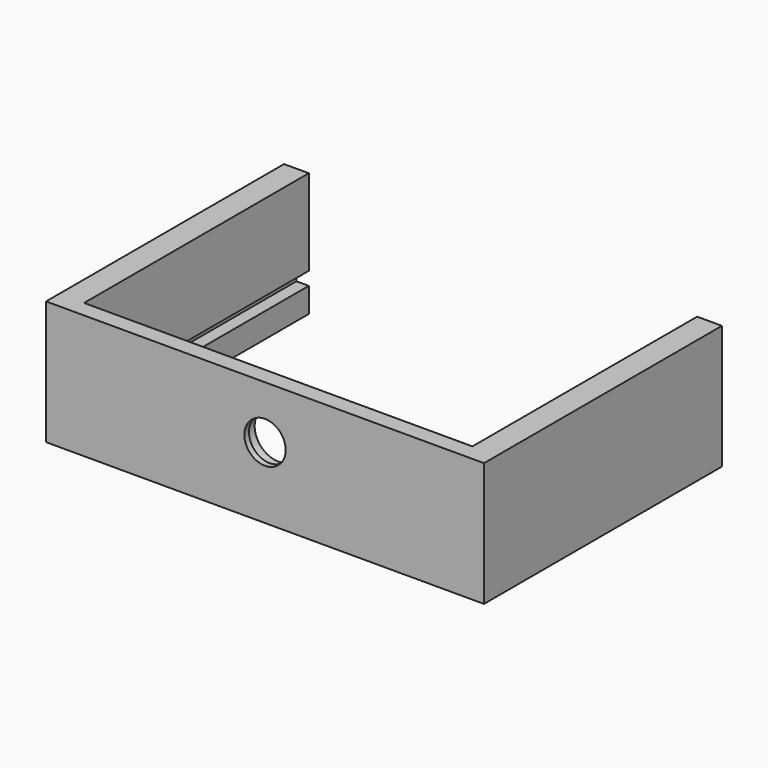
from build123d import *

# Parameters (mm, degrees)
BOX004_W               = 50
BOX004_H               = 33
BOX004_DEPTH           = 1.6
BOX002_W               = 3
BOX002_H               = 36
BOX002_DEPTH           = 15
BOX001_W               = 3
BOX001_H               = 36
BOX001_DEPTH           = 15
CYLINDER001_R          = 2.85
CYLINDER001_DEPTH      = 1.3
CYLINDER001_ROLL_ANGLE = 90
CYLINDER_R             = 2.5
CYLINDER_DEPTH         = 0.7
CYLINDER_ROLL_ANGLE    = 90
BOX003_W               = 53
BOX003_H               = 2
BOX003_DEPTH           = 15


with BuildPart() as pcb:
    # Box004 → Box004 (new body)
    with BuildSketch(Plane(origin=(1.5, 3, 3), x_dir=(1, 0, 0), z_dir=(0, 0, 1))):
        with Locations((25, 16.5)):
            Rectangle(BOX004_W, BOX004_H)
    extrude(amount=BOX004_DEPTH)


with BuildPart() as side2:
    # Box002 → Box002 (new body)
    with BuildSketch(Plane(origin=(50, 0, 0), x_dir=(1, 0, 0), z_dir=(0, 0, 1))):
        with Locations((1.5, 18)):
            Rectangle(BOX002_W, BOX002_H)
    extrude(amount=BOX002_DEPTH)


with BuildPart() as side1:
    # Box001 → Box001 (new body)
    with BuildSketch(Plane.XY):
        with Locations((1.5, 18)):
            Rectangle(BOX001_W, BOX001_H)
    extrude(amount=BOX001_DEPTH)


with BuildPart() as cylinder001:
    # Cylinder001 → Cylinder001 (new body)
    with BuildSketch(Plane.XY):
        Circle(CYLINDER001_R)
    extrude(amount=CYLINDER001_DEPTH)


with BuildPart() as cylinder001_1:
    # Cylinder001 roll: moved
    add(cylinder001.part.rotate(Axis((0, 0, 0), (1, 0, 0)), CYLINDER001_ROLL_ANGLE))


with BuildPart() as cylinder001_2:
    # Cylinder001 placement: moved
    add(cylinder001_1.part.moved(Location((26.5, 2, 8.6))))


with BuildPart() as led:
    # Cylinder → Cylinder (new body)
    with BuildSketch(Plane.XY):
        Circle(CYLINDER_R)
    extrude(amount=CYLINDER_DEPTH)


with BuildPart() as led_1:
    # Cylinder roll: moved
    add(led.part.rotate(Axis((0, 0, 0), (1, 0, 0)), CYLINDER_ROLL_ANGLE))


with BuildPart() as led_2:
    # Cylinder placement: moved
    add(led_1.part.moved(Location((26.5, 0.7, 8.6))))

    # Fusion001: union Cylinder001
    add(cylinder001_2.part)


with BuildPart() as cut001:
    # Box003 → Box003 (new body)
    with BuildSketch(Plane.XY):
        with Locations((26.5, 1)):
            Rectangle(BOX003_W, BOX003_H)
    extrude(amount=BOX003_DEPTH)

    # Cut: cut LED
    add(led_2.part, mode=Mode.SUBTRACT)

    # Fusion: union side2, side1
    add(side2.part)
    add(side1.part)

    # Cut001: cut PCB
    add(pcb.part, mode=Mode.SUBTRACT)


solid = cut001.part
